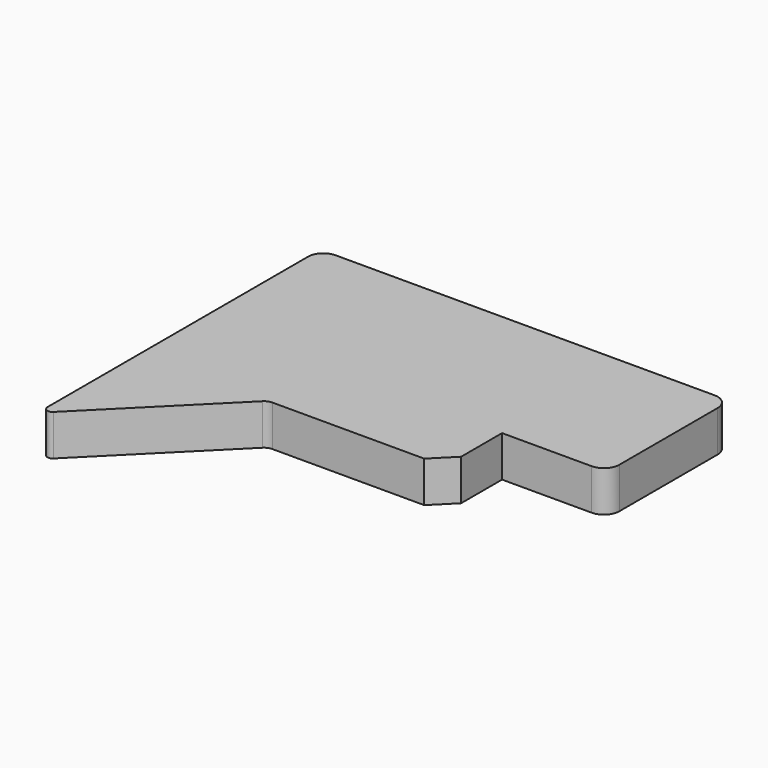
from build123d import *

# Parameters (mm, degrees)
BOX028_W          = 27
BOX028_H          = 14
BOX028_DEPTH      = 22
BOX009_W          = 80
BOX009_H          = 44
BOX009_DEPTH      = 8
BOX021_W          = 26
BOX021_H          = 26
BOX021_DEPTH      = 8
BOX020_W          = 26
BOX020_H          = 26
BOX020_DEPTH      = 8
CHAMFER017_SIZE   = 25
FILLET004003004_R = 1
FILLET004003005_R = 1.99
FILLET004003006_R = 3
CHAMFER033_SIZE   = 4
FILLET004003008_R = 3


with BuildPart() as cube028:
    # Box028 → Box028 (new body)
    with BuildSketch(Plane(origin=(59.5, -14, -7.5), x_dir=(1, 0, 0), z_dir=(0, 0, 1))):
        with Locations((13.5, 7)):
            Rectangle(BOX028_W, BOX028_H)
    extrude(amount=BOX028_DEPTH)


with BuildPart() as cube009:
    # Box009 → Box009 (new body)
    with BuildSketch(Plane(origin=(0, -14, 0), x_dir=(1, 0, 0), z_dir=(0, 0, 1))):
        with Locations((40, 22)):
            Rectangle(BOX009_W, BOX009_H)
    extrude(amount=BOX009_DEPTH)


with BuildPart() as cube021:
    # Box021 → Box021 (new body)
    with BuildSketch(Plane(origin=(-26, -39, 0), x_dir=(1, 0, 0), z_dir=(0, 0, 1))):
        with Locations((13, 13)):
            Rectangle(BOX021_W, BOX021_H)
    extrude(amount=BOX021_DEPTH)


with BuildPart() as fillet004003008:
    # Box020 → Box020 (new body)
    with BuildSketch(Plane(origin=(-1, -39, 0), x_dir=(1, 0, 0), z_dir=(0, 0, 1))):
        with Locations((13, 13)):
            Rectangle(BOX020_W, BOX020_H)
    extrude(amount=BOX020_DEPTH)

    # Chamfer017
    chamfer017_edges = [fillet004003008.edges().sort_by_distance(p)[0] for p in [
        (25, -39, 4),
    ]]
    chamfer(chamfer017_edges, length=CHAMFER017_SIZE)

    # Cut002008010: cut Cube021
    add(cube021.part, mode=Mode.SUBTRACT)

    # Fillet004003004
    fillet004003004_edges = [fillet004003008.edges().sort_by_distance(p)[0] for p in [
        (0, -39, 4),
    ]]
    fillet(fillet004003004_edges, radius=FILLET004003004_R)

    # Fusion006002011004053036004001003009006004: union Cube009
    add(cube009.part)

    # Fillet004003005
    fillet004003005_edges = [fillet004003008.edges().sort_by_distance(p)[0] for p in [
        (25, -14, 4),
    ]]
    fillet(fillet004003005_edges, radius=FILLET004003005_R)

    # Fillet004003006
    fillet004003006_edges = [fillet004003008.edges().sort_by_distance(p)[0] for p in [
        (80, -14, 4),
        (80, 30, 4),
        (0, 30, 4),
    ]]
    fillet(fillet004003006_edges, radius=FILLET004003006_R)

    # Cut002008023012003: cut Cube028
    add(cube028.part, mode=Mode.SUBTRACT)

    # Chamfer033
    chamfer033_edges = [fillet004003008.edges().sort_by_distance(p)[0] for p in [
        (59.5, -14, 4),
    ]]
    chamfer(chamfer033_edges, length=CHAMFER033_SIZE)

    # Fillet004003008
    fillet004003008_edges = [fillet004003008.edges().sort_by_distance(p)[0] for p in [
        (80, 0, 4),
    ]]
    fillet(fillet004003008_edges, radius=FILLET004003008_R)


solid = fillet004003008.part
